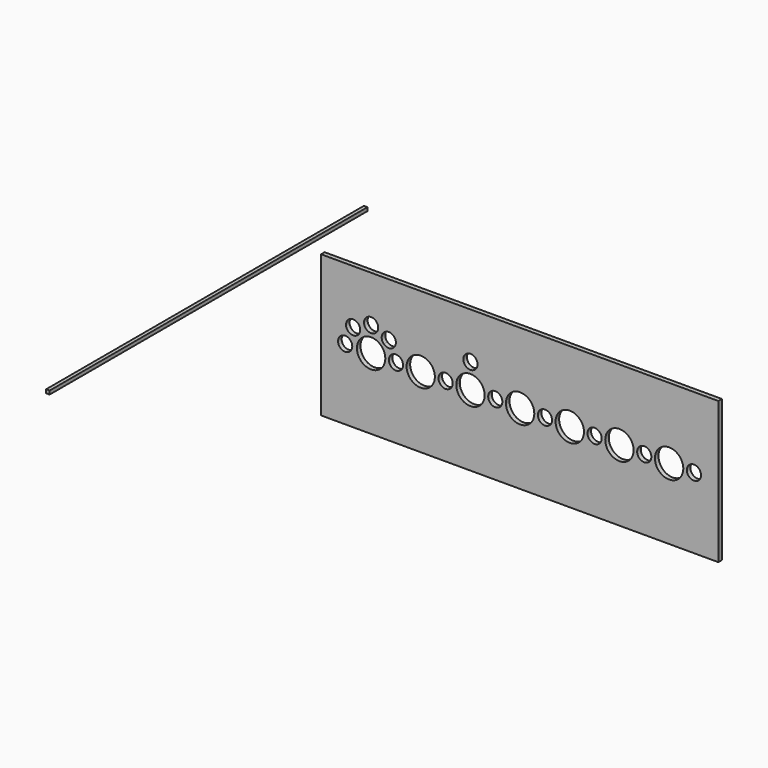
from build123d import *

# Parameters (mm, degrees)
F0_R     = 3.175
F1_DEPTH = 2
F2_W     = 1.5875
F2_H     = 1.587499
F3_DEPTH = 177.8


with BuildPart() as f1:
    # F0 (on Front) → F1 (new body)
    with BuildSketch(Plane.XZ):
        Polygon((-88.9, -31.75), (88.9, -31.75), (88.9, 31.75), (-88.9, 31.75), (-88.9, 0), align=None)
        with Locations((-78.101598, 0)):
            Circle(F0_R, mode=Mode.SUBTRACT)
        with BuildLine():
            ThreePointArc((-71.366363, 7.619016), (-71.632771, 6.345943), (-72.387285, 5.286513))
            ThreePointArc((-72.387285, 5.286513), (-77.449956, 8.892088), (-71.366363, 7.619016))
        make_face(mode=Mode.SUBTRACT)
        with BuildLine():
            ThreePointArc((-61.976801, 4.467086), (-60.617018, 2.415017), (-60.139853, 0))
            ThreePointArc((-60.139853, 0), (-68.856825, -5.892363), (-71.075268, 4.392775))
            ThreePointArc((-71.075268, 4.392775), (-68.982681, 5.840232), (-66.489853, 6.35))
            ThreePointArc((-66.489853, 6.35), (-64.044807, 5.860397), (-61.976801, 4.467086))
        make_face(mode=Mode.SUBTRACT)
        with BuildLine():
            ThreePointArc((-52.202353, 0), (-55.377353, -3.175), (-58.552353, 0))
            ThreePointArc((-58.552353, 0), (-55.377353, 3.175), (-52.202353, 0))
        make_face(mode=Mode.SUBTRACT)
        with BuildLine():
            ThreePointArc((-55.408021, 7.805656), (-57.351149, 4.879376), (-60.80211, 5.534915))
            ThreePointArc((-60.80211, 5.534915), (-59.814892, 10.731937), (-55.408021, 7.805656))
        make_face(mode=Mode.SUBTRACT)
        with BuildLine():
            ThreePointArc((-63.301591, 11.112472), (-64.236221, 8.862724), (-66.489853, 7.9375))
            ThreePointArc((-66.489853, 7.9375), (-68.716961, 13.36222), (-63.301591, 11.112472))
        make_face(mode=Mode.SUBTRACT)
        with BuildLine():
            ThreePointArc((-37.955921, 0), (-44.285387, -6.329466), (-50.614853, 0))
            ThreePointArc((-50.614853, 0), (-44.285387, 6.329466), (-37.955921, 0))
        make_face(mode=Mode.SUBTRACT)
        with BuildLine():
            ThreePointArc((-29.977353, 0), (-33.152353, -3.175), (-36.327353, 0))
            ThreePointArc((-36.327353, 0), (-33.152353, 3.175), (-29.977353, 0))
        make_face(mode=Mode.SUBTRACT)
        with BuildLine():
            ThreePointArc((-15.689853, 0), (-22.039853, -6.35), (-28.389853, 0))
            ThreePointArc((-28.389853, 0), (-26.529981, 4.490128), (-22.039853, 6.35))
            ThreePointArc((-22.039853, 6.35), (-17.549725, 4.490128), (-15.689853, 0))
        make_face(mode=Mode.SUBTRACT)
        with BuildLine():
            ThreePointArc((-7.752353, 0), (-10.927353, -3.175), (-14.102353, 0))
            ThreePointArc((-14.102353, 0), (-10.927353, 3.175), (-7.752353, 0))
        make_face(mode=Mode.SUBTRACT)
        with BuildLine():
            ThreePointArc((-18.864853, 11.1125), (-19.794789, 8.867436), (-22.039853, 7.9375))
            ThreePointArc((-22.039853, 7.9375), (-24.284917, 13.357564), (-18.864853, 11.1125))
        make_face(mode=Mode.SUBTRACT)
        with BuildLine():
            ThreePointArc((6.535147, 0), (0.185147, -6.35), (-6.164853, 0))
            ThreePointArc((-6.164853, 0), (-4.304981, 4.490128), (0.185147, 6.35))
            ThreePointArc((0.185147, 6.35), (4.675275, 4.490128), (6.535147, 0))
        make_face(mode=Mode.SUBTRACT)
        with BuildLine():
            ThreePointArc((14.472647, 0), (11.297647, -3.175), (8.122647, 0))
            ThreePointArc((8.122647, 0), (11.297647, 3.175), (14.472647, 0))
        make_face(mode=Mode.SUBTRACT)
        with BuildLine():
            ThreePointArc((28.760147, 0), (22.410147, -6.35), (16.060147, 0))
            ThreePointArc((16.060147, 0), (22.410147, 6.35), (28.760147, 0))
        make_face(mode=Mode.SUBTRACT)
        with BuildLine():
            ThreePointArc((36.697647, 0), (33.522647, -3.175), (30.347647, 0))
            ThreePointArc((30.347647, 0), (33.522647, 3.175), (36.697647, 0))
        make_face(mode=Mode.SUBTRACT)
        with BuildLine():
            ThreePointArc((50.985147, 0), (44.635147, -6.35), (38.285147, 0))
            ThreePointArc((38.285147, 0), (44.635147, 6.35), (50.985147, 0))
        make_face(mode=Mode.SUBTRACT)
        with BuildLine():
            ThreePointArc((58.922647, 0), (55.747647, -3.175), (52.572647, 0))
            ThreePointArc((52.572647, 0), (55.747647, 3.175), (58.922647, 0))
        make_face(mode=Mode.SUBTRACT)
        with BuildLine():
            ThreePointArc((73.210147, 0), (66.860147, -6.35), (60.510147, 0))
            ThreePointArc((60.510147, 0), (66.860147, 6.35), (73.210147, 0))
        make_face(mode=Mode.SUBTRACT)
        with BuildLine():
            ThreePointArc((81.147647, 0), (77.972647, -3.175), (74.797647, 0))
            ThreePointArc((74.797647, 0), (77.972647, 3.175), (81.147647, 0))
        make_face(mode=Mode.SUBTRACT)
    extrude(amount=F1_DEPTH)


with BuildPart() as f3:
    # F2 (on Front) → F3 (new body)
    with BuildSketch(Plane.XZ):
        with Locations((-70.511371, 54.949678)):
            Rectangle(F2_W, F2_H)
    extrude(amount=F3_DEPTH)


solid = Compound([f1.part, f3.part])
